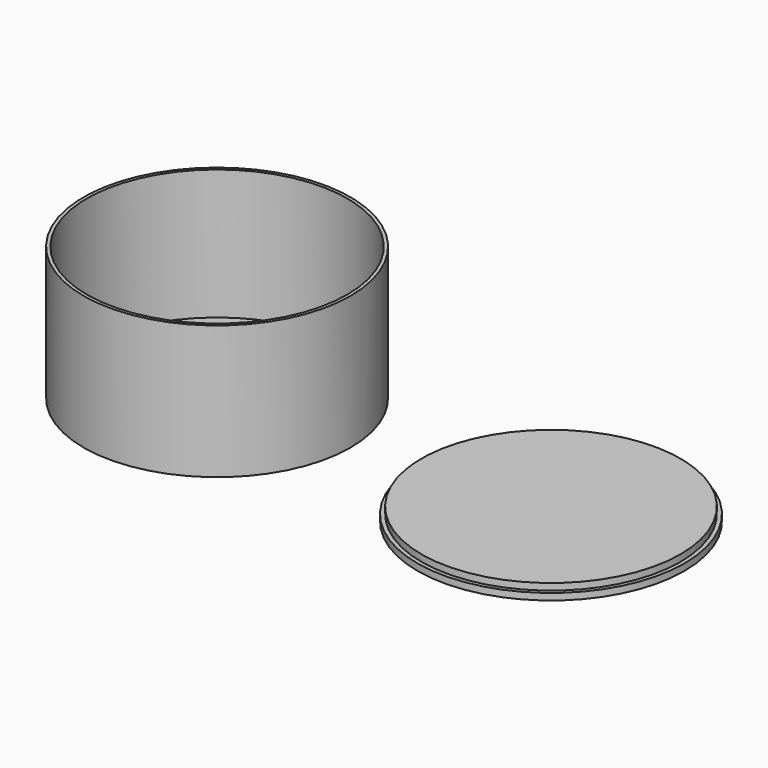
from build123d import *

# Parameters (mm, degrees)
SKETCH_R     = 100
PAD_DEPTH    = 100
SKETCH001_R  = 97.5
POCKET_DEPTH = 97.5
SKETCH002_R  = 100
PAD001_DEPTH = 5
SKETCH003_R  = 97
PAD002_DEPTH = 5


with BuildPart() as box:
    # Sketch → Pad (new body)
    with BuildSketch(Plane.XY):
        Circle(SKETCH_R)
    extrude(amount=PAD_DEPTH)

    # Sketch001 (on Face3 of Pad) → Pocket (cut)
    with BuildSketch(Plane.XY.offset(100)):
        Circle(SKETCH001_R)
    extrude(amount=-POCKET_DEPTH, mode=Mode.SUBTRACT)


with BuildPart() as lid:
    # Sketch002 → Pad001 (new body)
    with BuildSketch(Plane.XY):
        with Locations((250, 0)):
            Circle(SKETCH002_R)
    extrude(amount=PAD001_DEPTH)

    # Sketch003 (on Face3 of Pad001) → Pad002 (join)
    with BuildSketch(Plane.XY.offset(5)):
        with Locations((250, 0)):
            Circle(SKETCH003_R)
    extrude(amount=PAD002_DEPTH)


solid = Compound([box.part, lid.part])
